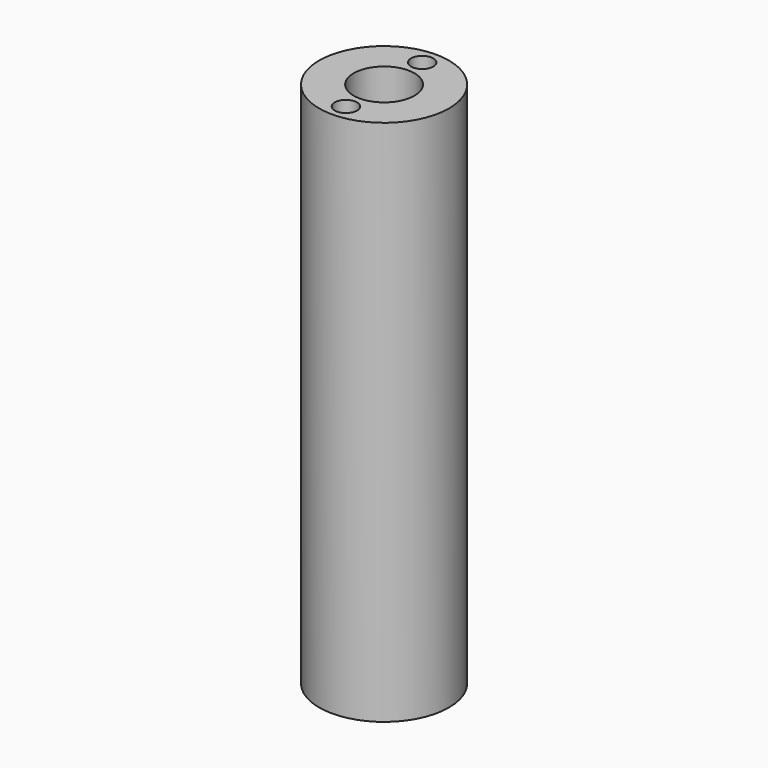
from build123d import *

# Parameters (mm, degrees)
F0_R     = 16
F0_R_2   = 7.5
F1_DEPTH = 130
F3_D     = 5.5
F3_DEPTH = 9
F3_TIP   = 1.6523667023
F4_D     = 5.5
F4_DEPTH = 9
F4_TIP   = 1.6523667023
F6_D     = 5.5
F6_DEPTH = 9
F6_TIP   = 1.6523667023
F7_D     = 5.5
F7_DEPTH = 9
F7_TIP   = 1.6523667023


with BuildPart() as f1:
    # F0 (on Top) → F1 (new body)
    with BuildSketch(Plane.XY):
        with Locations((0, -0.4519075282)):
            Circle(F0_R)
        with Locations((0, -0.4519075282)):
            Circle(F0_R_2, mode=Mode.SUBTRACT)
    extrude(amount=F1_DEPTH)

    # F3
    with Locations(Plane.XY.offset(130)):
        with Locations((0, 11.2980924718)):
            Hole(F3_D / 2, depth=F3_DEPTH)
            with Locations((0, 0, -(F3_DEPTH + F3_TIP / 2))):  # 118° drill point
                Cone(0, F3_D / 2, F3_TIP, mode=Mode.SUBTRACT)

    # F4
    with Locations(Plane.XY.offset(130)):
        with Locations((0, -12.2019075282)):
            Hole(F4_D / 2, depth=F4_DEPTH)
            with Locations((0, 0, -(F4_DEPTH + F4_TIP / 2))):  # 118° drill point
                Cone(0, F4_D / 2, F4_TIP, mode=Mode.SUBTRACT)

    # F6
    with Locations(Plane(origin=(0, 0, 0), x_dir=(1, 0, 0), z_dir=(0, 0, -1))):
        with Locations((0, -11.2980924718)):
            Hole(F6_D / 2, depth=F6_DEPTH)
            with Locations((0, 0, -(F6_DEPTH + F6_TIP / 2))):  # 118° drill point
                Cone(0, F6_D / 2, F6_TIP, mode=Mode.SUBTRACT)

    # F7
    with Locations(Plane(origin=(0, 0, 0), x_dir=(1, 0, 0), z_dir=(0, 0, -1))):
        with Locations((0, 12.2019075282)):
            Hole(F7_D / 2, depth=F7_DEPTH)
            with Locations((0, 0, -(F7_DEPTH + F7_TIP / 2))):  # 118° drill point
                Cone(0, F7_D / 2, F7_TIP, mode=Mode.SUBTRACT)


solid = f1.part
